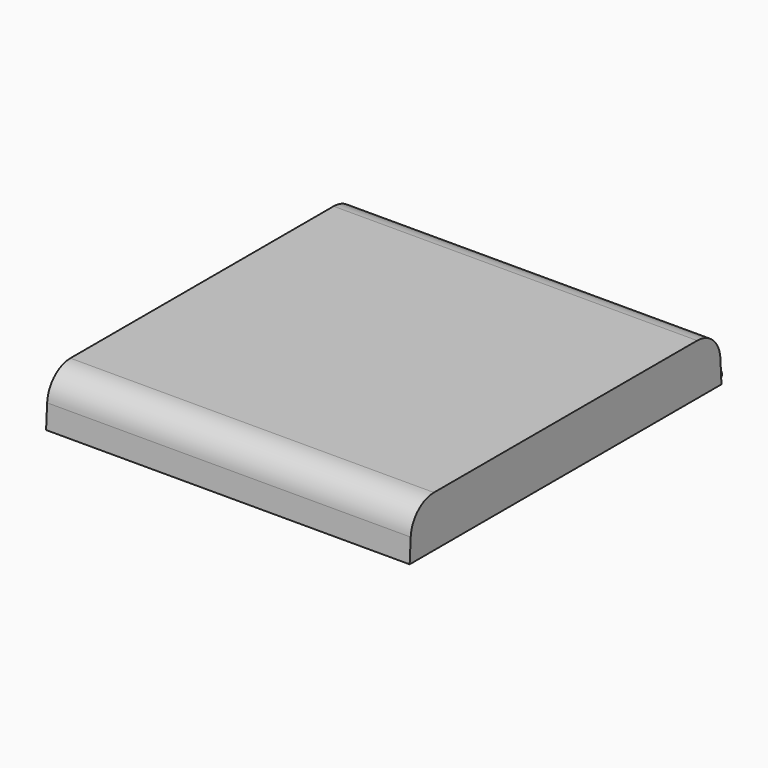
from build123d import *

# Parameters (mm, degrees)
F1_DEPTH = 250
F2_T     = -2.5
F3_W     = 245
F3_H     = 8
F4_DEPTH = 267.5780191142
F6_DEPTH = 245


with BuildPart() as f1:
    # F0 (on Right) → F1 (new body)
    with BuildSketch(Plane.YZ):
        with BuildLine():
            Line((-134.0000000003, -19.0613823906), (133.9999999997, -19.0613823906))
            Line((133.9999999997, -19.0613823906), (133.0930686257, -2.9381579633))
            ThreePointArc((133.0930686257, -2.9381579633), (126.8639122094, 10.4724486347), (113.1246343635, 15.9386176094))
            Line((113.1246343635, 15.9386176094), (-113.1246343631, 15.9386176094))
            ThreePointArc((-113.1246343631, 15.9386176094), (-126.8639122086, 10.4724486351), (-133.0930686253, -2.9381579622))
            Line((-133.0930686253, -2.9381579622), (-134.0000000003, -19.0613823906))
        make_face()
    extrude(amount=-F1_DEPTH)

    # F2
    f2_openings = [f1.faces().sort_by_distance(p)[0] for p in [
        (-125, 0, -19.061382),
    ]]
    offset(amount=F2_T, openings=f2_openings)

    # F3 (on face) → F4 (cut, through all)
    with BuildSketch(Plane(origin=(0, 132.5085319634, 7.4536049229), x_dir=(-1, 0, 0), z_dir=(0, 0.9984217131, 0.0561612214))):
        with Locations((125, -22.5569017233)):
            Rectangle(F3_W, F3_H)
    extrude(amount=-F4_DEPTH, mode=Mode.SUBTRACT)

    # F5 (on face) → F6 (join)
    with BuildSketch(Plane.YZ.offset(-247.5)):
        with BuildLine():
            Line((133.6349520609, -12.5716412553), (133.5647505342, -11.3236141139))
            ThreePointArc((133.5647505342, -11.3236141139), (130.0312736901, -15.2783001182), (133.9859596944, -18.8117769623))
            Line((133.9859596944, -18.8117769623), (133.9157581677, -17.5637498209))
            ThreePointArc((133.9157581677, -17.5637498209), (131.2793008315, -15.2080985915), (133.6349520609, -12.5716412553))
        make_face()
        with BuildLine():
            ThreePointArc((133.9859596944, -18.8117769623), (136.5004484315, -17.6438101342), (137.5253551143, -15.0676955381))
            ThreePointArc((137.5253551143, -15.0676955381), (136.3514697104, -12.3426022209), (133.5647505342, -11.3236141139))
            Line((133.5647505342, -11.3236141139), (133.6349520609, -12.5716412553))
            ThreePointArc((133.6349520609, -12.5716412553), (135.492764845, -13.25096666), (136.2753551143, -15.0676955381))
            ThreePointArc((136.2753551143, -15.0676955381), (135.5920839925, -16.7851052689), (133.9157581677, -17.5637498209))
            Line((133.9157581677, -17.5637498209), (133.9859596944, -18.8117769623))
        make_face()
    extrude(amount=F6_DEPTH)


solid = f1.part
